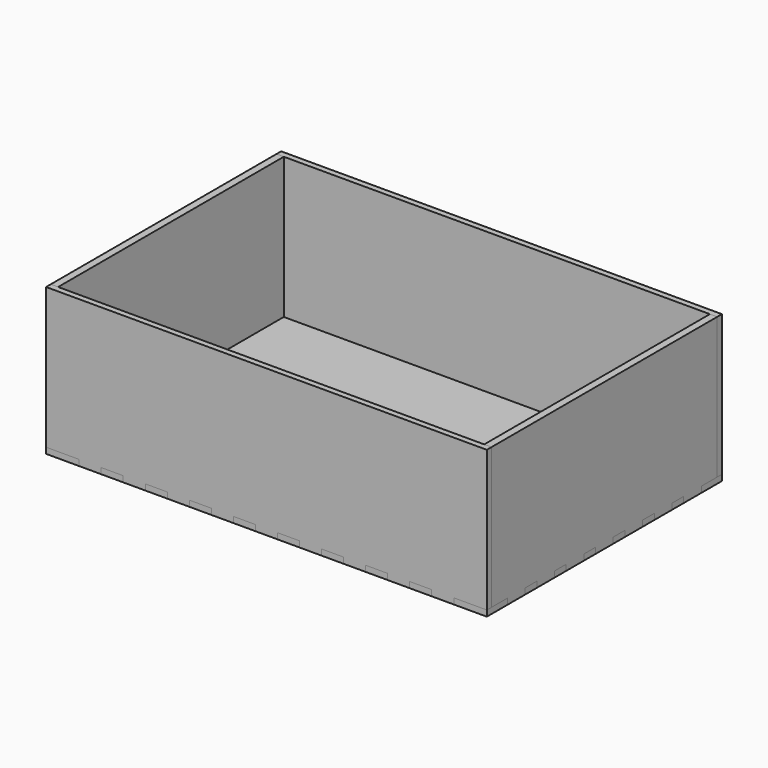
from build123d import *

# Parameters (mm, degrees)
F1_DEPTH  = 4
F2_W      = 15
F2_H      = 4
F3_DEPTH  = 4
F2_W_2    = 5
F2_H_2    = 15
F4_W      = 300
F4_H      = 4
F5_DEPTH  = 96
F9_W      = 5
F9_H      = 25
F9_H_2    = 28.5
F9_H_3    = 13.5
F10_DEPTH = 96


with BuildPart() as f1:
    # F0 (on Top) → F1 (new body)
    with BuildSketch(Plane.XY):
        Polygon((127.5, -100), (150, -100), (150, -82.5), (145, -82.5), (145, -67.5), (150, -67.5), (150, -57.5), (145, -57.5), (145, -42.5), (150, -42.5), (150, -32.5), (145, -32.5), (145, -17.5), (150, -17.5), (150, -7.5), (145, -7.5), (145, 7.5), (150, 7.5), (150, 17.5), (145, 17.5), (145, 32.5), (150, 32.5), (150, 42.5), (145, 42.5), (145, 57.5), (150, 57.5), (150, 67.5), (145, 67.5), (145, 82.5), (150, 82.5), (150, 100), (127.5, 100), (127.5, 96), (112.5, 96), (112.5, 100), (97.5, 100), (97.5, 96), (82.5, 96), (82.5, 100), (67.5, 100), (67.5, 96), (52.5, 96), (52.5, 100), (37.5, 100), (37.5, 96), (22.5, 96), (22.5, 100), (7.5, 100), (7.5, 96), (0, 96), (-7.5, 96), (-7.5, 100), (-22.5, 100), (-22.5, 96), (-37.5, 96), (-37.5, 100), (-52.5, 100), (-52.5, 96), (-67.5, 96), (-67.5, 100), (-82.5, 100), (-82.5, 96), (-97.5, 96), (-97.5, 100), (-112.5, 100), (-112.5, 96), (-127.5, 96), (-127.5, 100), (-150, 100), (-150, 82.5), (-145, 82.5), (-145, 67.5), (-150, 67.5), (-150, 57.5), (-145, 57.5), (-145, 42.5), (-150, 42.5), (-150, 32.5), (-145, 32.5), (-145, 17.5), (-150, 17.5), (-150, 7.5), (-145, 7.5), (-145, -7.5), (-150, -7.5), (-150, -17.5), (-145, -17.5), (-145, -32.5), (-150, -32.5), (-150, -42.5), (-145, -42.5), (-145, -57.5), (-150, -57.5), (-150, -67.5), (-145, -67.5), (-145, -82.5), (-150, -82.5), (-150, -100), (-127.5, -100), (-127.5, -96), (-112.5, -96), (-112.5, -100), (-97.5, -100), (-97.5, -96), (-82.5, -96), (-82.5, -100), (-67.5, -100), (-67.5, -96), (-52.5, -96), (-52.5, -100), (-37.5, -100), (-37.5, -96), (-22.5, -96), (-22.5, -100), (-7.5, -100), (-7.5, -96), (0, -96), (7.5, -96), (7.5, -100), (22.5, -100), (22.5, -96), (37.5, -96), (37.5, -100), (52.5, -100), (52.5, -96), (67.5, -96), (67.5, -100), (82.5, -100), (82.5, -96), (97.5, -96), (97.5, -100), (112.5, -100), (112.5, -96), (127.5, -96), align=None)
    extrude(amount=F1_DEPTH)


with BuildPart() as f3:
    # F2 (on face) → F3 (new body, through all)
    with BuildSketch(Plane.XY.offset(4)):
        with Locations((-90, 98)):
            Rectangle(F2_W, F2_H)
    extrude(amount=-F3_DEPTH)


with BuildPart() as f3b:
    # F2 (on face) → F3, piece 2 (new body, through all)
    with BuildSketch(Plane.XY.offset(4)):
        with Locations((-120, 98)):
            Rectangle(F2_W, F2_H)
    extrude(amount=-F3_DEPTH)


with BuildPart() as f3c:
    # F2 (on face) → F3, piece 3 (new body, through all)
    with BuildSketch(Plane.XY.offset(4)):
        with Locations((120, 98)):
            Rectangle(F2_W, F2_H)
    extrude(amount=-F3_DEPTH)


with BuildPart() as f3d:
    # F2 (on face) → F3, piece 4 (new body, through all)
    with BuildSketch(Plane.XY.offset(4)):
        with Locations((90, 98)):
            Rectangle(F2_W, F2_H)
    extrude(amount=-F3_DEPTH)


with BuildPart() as f3e:
    # F2 (on face) → F3, piece 5 (new body, through all)
    with BuildSketch(Plane.XY.offset(4)):
        with Locations((60, 98)):
            Rectangle(F2_W, F2_H)
    extrude(amount=-F3_DEPTH)


with BuildPart() as f3f:
    # F2 (on face) → F3, piece 6 (new body, through all)
    with BuildSketch(Plane.XY.offset(4)):
        with Locations((30, 98)):
            Rectangle(F2_W, F2_H)
    extrude(amount=-F3_DEPTH)


with BuildPart() as f3g:
    # F2 (on face) → F3, piece 7 (new body, through all)
    with BuildSketch(Plane.XY.offset(4)):
        with Locations((0, 98)):
            Rectangle(F2_W, F2_H)
    extrude(amount=-F3_DEPTH)


with BuildPart() as f3h:
    # F2 (on face) → F3, piece 8 (new body, through all)
    with BuildSketch(Plane.XY.offset(4)):
        with Locations((-30, 98)):
            Rectangle(F2_W, F2_H)
    extrude(amount=-F3_DEPTH)


with BuildPart() as f3i:
    # F2 (on face) → F3, piece 9 (new body, through all)
    with BuildSketch(Plane.XY.offset(4)):
        with Locations((-60, 98)):
            Rectangle(F2_W, F2_H)
    extrude(amount=-F3_DEPTH)


with BuildPart() as f3j:
    # F2 (on face) → F3, piece 10 (new body, through all)
    with BuildSketch(Plane.XY.offset(4)):
        with Locations((-90, -98)):
            Rectangle(F2_W, F2_H)
    extrude(amount=-F3_DEPTH)


with BuildPart() as f3k:
    # F2 (on face) → F3, piece 11 (new body, through all)
    with BuildSketch(Plane.XY.offset(4)):
        with Locations((120, -98)):
            Rectangle(F2_W, F2_H)
    extrude(amount=-F3_DEPTH)


with BuildPart() as f3l:
    # F2 (on face) → F3, piece 12 (new body, through all)
    with BuildSketch(Plane.XY.offset(4)):
        with Locations((90, -98)):
            Rectangle(F2_W, F2_H)
    extrude(amount=-F3_DEPTH)


with BuildPart() as f3m:
    # F2 (on face) → F3, piece 13 (new body, through all)
    with BuildSketch(Plane.XY.offset(4)):
        with Locations((60, -98)):
            Rectangle(F2_W, F2_H)
    extrude(amount=-F3_DEPTH)


with BuildPart() as f3n:
    # F2 (on face) → F3, piece 14 (new body, through all)
    with BuildSketch(Plane.XY.offset(4)):
        with Locations((30, -98)):
            Rectangle(F2_W, F2_H)
    extrude(amount=-F3_DEPTH)


with BuildPart() as f3o:
    # F2 (on face) → F3, piece 15 (new body, through all)
    with BuildSketch(Plane.XY.offset(4)):
        with Locations((0, -98)):
            Rectangle(F2_W, F2_H)
    extrude(amount=-F3_DEPTH)


with BuildPart() as f3p:
    # F2 (on face) → F3, piece 16 (new body, through all)
    with BuildSketch(Plane.XY.offset(4)):
        with Locations((-30, -98)):
            Rectangle(F2_W, F2_H)
    extrude(amount=-F3_DEPTH)


with BuildPart() as f3q:
    # F2 (on face) → F3, piece 17 (new body, through all)
    with BuildSketch(Plane.XY.offset(4)):
        with Locations((-60, -98)):
            Rectangle(F2_W, F2_H)
    extrude(amount=-F3_DEPTH)


with BuildPart() as f3r:
    # F2 (on face) → F3, piece 18 (new body, through all)
    with BuildSketch(Plane.XY.offset(4)):
        with Locations((-120, -98)):
            Rectangle(F2_W, F2_H)
    extrude(amount=-F3_DEPTH)


with BuildPart() as f3s:
    # F2 (on face) → F3, piece 19 (new body, through all)
    with BuildSketch(Plane.XY.offset(4)):
        with Locations((-147.5, 75)):
            Rectangle(F2_W_2, F2_H_2)
    extrude(amount=-F3_DEPTH)


with BuildPart() as f3t:
    # F2 (on face) → F3, piece 20 (new body, through all)
    with BuildSketch(Plane.XY.offset(4)):
        with Locations((-147.5, 50)):
            Rectangle(F2_W_2, F2_H_2)
    extrude(amount=-F3_DEPTH)


with BuildPart() as f3u:
    # F2 (on face) → F3, piece 21 (new body, through all)
    with BuildSketch(Plane.XY.offset(4)):
        with Locations((-147.5, 25)):
            Rectangle(F2_W_2, F2_H_2)
    extrude(amount=-F3_DEPTH)


with BuildPart() as f3v:
    # F2 (on face) → F3, piece 22 (new body, through all)
    with BuildSketch(Plane.XY.offset(4)):
        with Locations((-147.5, 0)):
            Rectangle(F2_W_2, F2_H_2)
    extrude(amount=-F3_DEPTH)


with BuildPart() as f3w:
    # F2 (on face) → F3, piece 23 (new body, through all)
    with BuildSketch(Plane.XY.offset(4)):
        with Locations((-147.5, -75)):
            Rectangle(F2_W_2, F2_H_2)
    extrude(amount=-F3_DEPTH)


with BuildPart() as f3x:
    # F2 (on face) → F3, piece 24 (new body, through all)
    with BuildSketch(Plane.XY.offset(4)):
        with Locations((-147.5, -50)):
            Rectangle(F2_W_2, F2_H_2)
    extrude(amount=-F3_DEPTH)


with BuildPart() as f3y:
    # F2 (on face) → F3, piece 25 (new body, through all)
    with BuildSketch(Plane.XY.offset(4)):
        with Locations((-147.5, -25)):
            Rectangle(F2_W_2, F2_H_2)
    extrude(amount=-F3_DEPTH)


with BuildPart() as f3z:
    # F2 (on face) → F3, piece 26 (new body, through all)
    with BuildSketch(Plane.XY.offset(4)):
        with Locations((147.5, 75)):
            Rectangle(F2_W_2, F2_H_2)
    extrude(amount=-F3_DEPTH)


with BuildPart() as f3ba:
    # F2 (on face) → F3, piece 27 (new body, through all)
    with BuildSketch(Plane.XY.offset(4)):
        with Locations((147.5, 50)):
            Rectangle(F2_W_2, F2_H_2)
    extrude(amount=-F3_DEPTH)


with BuildPart() as f3bb:
    # F2 (on face) → F3, piece 28 (new body, through all)
    with BuildSketch(Plane.XY.offset(4)):
        with Locations((147.5, 25)):
            Rectangle(F2_W_2, F2_H_2)
    extrude(amount=-F3_DEPTH)


with BuildPart() as f3bc:
    # F2 (on face) → F3, piece 29 (new body, through all)
    with BuildSketch(Plane.XY.offset(4)):
        with Locations((147.5, 0)):
            Rectangle(F2_W_2, F2_H_2)
    extrude(amount=-F3_DEPTH)


with BuildPart() as f3bd:
    # F2 (on face) → F3, piece 30 (new body, through all)
    with BuildSketch(Plane.XY.offset(4)):
        with Locations((147.5, -25)):
            Rectangle(F2_W_2, F2_H_2)
    extrude(amount=-F3_DEPTH)


with BuildPart() as f3be:
    # F2 (on face) → F3, piece 31 (new body, through all)
    with BuildSketch(Plane.XY.offset(4)):
        with Locations((147.5, -75)):
            Rectangle(F2_W_2, F2_H_2)
    extrude(amount=-F3_DEPTH)


with BuildPart() as f3bf:
    # F2 (on face) → F3, piece 32 (new body, through all)
    with BuildSketch(Plane.XY.offset(4)):
        with Locations((147.5, -50)):
            Rectangle(F2_W_2, F2_H_2)
    extrude(amount=-F3_DEPTH)


with BuildPart() as f5:
    # F4 (on face) → F5 (new body)
    with BuildSketch(Plane.XY.offset(4)):
        with Locations((0, 98)):
            Rectangle(F4_W, F4_H)
    extrude(amount=F5_DEPTH)


with BuildPart() as f3b_1:
    add(f3b.part)

    # F6: union F3i, F3, F3h, F3g, F3f, F3e, F3d, F3c, F5
    add(f3i.part)
    add(f3.part)
    add(f3h.part)
    add(f3g.part)
    add(f3f.part)
    add(f3e.part)
    add(f3d.part)
    add(f3c.part)
    add(f5.part)


with BuildPart() as f7_1:
    # F7: instance of F3b
    add(f3b_1.part.mirror(Plane.XZ))


with BuildPart() as f3r_1:
    add(f3r.part)

    # F8: union F7_1, F3j, F3q, F3p, F3o, F3n, F3m, F3l, F3k
    add(f7_1.part)
    add(f3j.part)
    add(f3q.part)
    add(f3p.part)
    add(f3o.part)
    add(f3n.part)
    add(f3m.part)
    add(f3l.part)
    add(f3k.part)


with BuildPart() as f10:
    # F9 (on face) → F10 (new body)
    with BuildSketch(Plane.XY.offset(4)):
        with Locations((147.5, 20)):
            Rectangle(F9_W, F9_H)
        with Locations((147.5, -5)):
            Rectangle(F9_W, F9_H)
        with Locations((147.5, -30)):
            Rectangle(F9_W, F9_H)
        with Locations((147.5, 45)):
            Rectangle(F9_W, F9_H)
        with Locations((147.5, -55)):
            Rectangle(F9_W, F9_H)
        with Locations((147.5, 70)):
            Rectangle(F9_W, F9_H)
        with Locations((147.5, -81.75)):
            Rectangle(F9_W, F9_H_2)
        with Locations((147.5, 89.25)):
            Rectangle(F9_W, F9_H_3)
    extrude(amount=F10_DEPTH)


with BuildPart() as f10b:
    # F9 (on face) → F10, piece 2 (new body)
    with BuildSketch(Plane.XY.offset(4)):
        with Locations((-147.5, 89.25)):
            Rectangle(F9_W, F9_H_3)
        with Locations((-147.5, 70)):
            Rectangle(F9_W, F9_H)
        with Locations((-147.5, 45)):
            Rectangle(F9_W, F9_H)
        with Locations((-147.5, 20)):
            Rectangle(F9_W, F9_H)
        with Locations((-147.5, -5)):
            Rectangle(F9_W, F9_H)
        with Locations((-147.5, -30)):
            Rectangle(F9_W, F9_H)
        with Locations((-147.5, -55)):
            Rectangle(F9_W, F9_H)
        with Locations((-147.5, -81.75)):
            Rectangle(F9_W, F9_H_2)
    extrude(amount=F10_DEPTH)


with BuildPart() as f3be_1:
    add(f3be.part)

    # F11: union F10, F3bf, F3bd, F3bc, F3bb, F3ba, F3z
    add(f10.part)
    add(f3bf.part)
    add(f3bd.part)
    add(f3bc.part)
    add(f3bb.part)
    add(f3ba.part)
    add(f3z.part)


with BuildPart() as f3s_1:
    add(f3s.part)

    # F12: union F10b, F3t, F3u, F3v, F3y, F3x, F3w
    add(f10b.part)
    add(f3t.part)
    add(f3u.part)
    add(f3v.part)
    add(f3y.part)
    add(f3x.part)
    add(f3w.part)


solid = Compound([f1.part, f3b_1.part, f3r_1.part, f3be_1.part, f3s_1.part])
